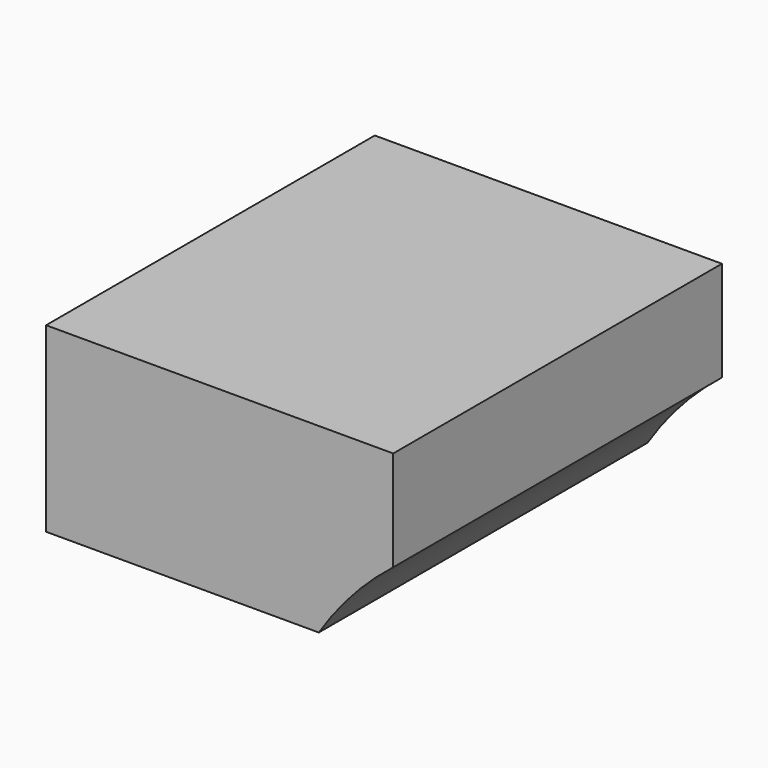
from build123d import *

# Parameters (mm, degrees)
F1_DEPTH = 25.4
F3_DEPTH = 25.4


with BuildPart() as f1:
    # F0 (on Front) → F1 (new body)
    with BuildSketch(Plane.XZ):
        with BuildLine():
            Line((-25.10887, 44.524442), (-68.027519, 44.524442))
            Line((-68.027519, 44.524442), (-68.027519, 22.043247))
            Line((-68.027519, 22.043247), (-34.309135, 22.043247))
            ThreePointArc((-34.309135, 22.043247), (-30.13434, 27.476226), (-25.10887, 32.133566))
            Line((-25.10887, 32.133566), (-25.10887, 44.524442))
        make_face()
    extrude(amount=F1_DEPTH)

    # F2 (on face) → F3 (join)
    with BuildSketch(Plane(origin=(0, 0, 0), x_dir=(-1, 0, 0), z_dir=(0, 1, 0))):
        with BuildLine():
            Line((68.027519, 44.524442), (25.10887, 44.524442))
            Line((25.10887, 44.524442), (25.10887, 32.133566))
            ThreePointArc((25.10887, 32.133566), (30.13434, 27.476226), (34.309135, 22.043247))
            Line((34.309135, 22.043247), (68.027519, 22.043247))
            Line((68.027519, 22.043247), (68.027519, 44.524442))
        make_face()
    extrude(amount=F3_DEPTH)


solid = f1.part
